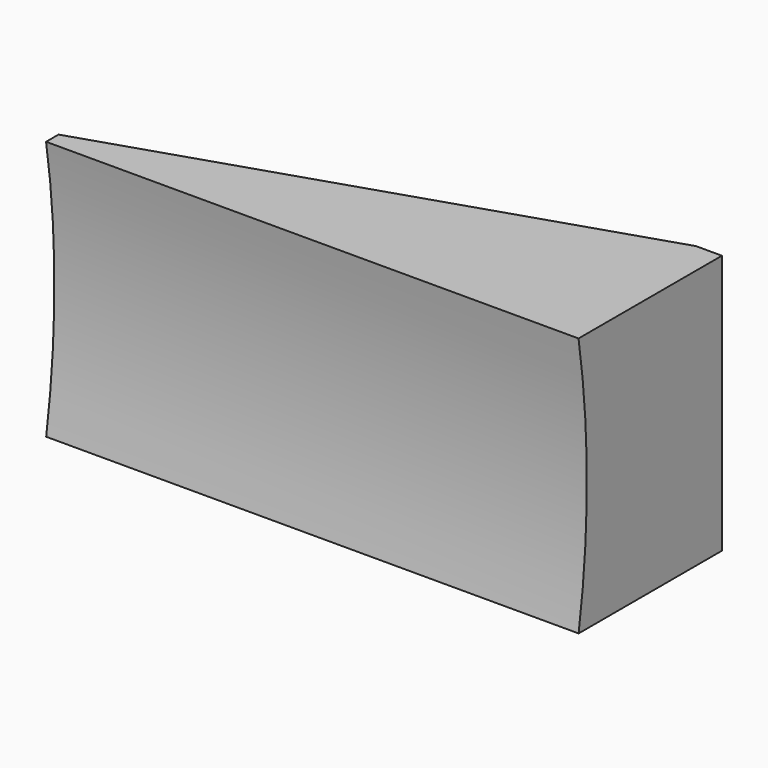
from build123d import *

# Parameters (mm, degrees)
F1_DEPTH = 50
F2_DEPTH = 50
F3_DEPTH = 18
F4_DEPTH = 18
F5_DEPTH = 31
F7_DEPTH = 205.001


with BuildPart() as f1:
    # F0 (on Top) → F1 (new body)
    with BuildSketch(Plane.XY):
        Polygon((0, 6), (0, 0), (205, 0), (205, 69), (195, 69), align=None)
    extrude(amount=-F1_DEPTH)

    # F0 (on Top) → F2 (join)
    with BuildSketch(Plane.XY):
        Polygon((0, 6), (0, 0), (205, 0), (205, 69), (195, 69), align=None)
    extrude(amount=F2_DEPTH)

    # F0 (on Top) → F3 (join)
    with BuildSketch(Plane.XY):
        Polygon((0, 16), (0, 6), (195, 69), (163.703159, 68.888713), align=None)
    extrude(amount=F3_DEPTH)

    # F3_face (on face) → F4 (join)
    with BuildSketch(Plane(origin=(89.903344, 39.900279, 0), x_dir=(1, 0, 0), z_dir=(0, 0, -1))):
        Polygon((105.096656, -29.099721), (-89.903344, 33.900279), (-89.903344, 23.900279), (73.799815, -28.988434), align=None)
    extrude(amount=F4_DEPTH)

    # F0 (on Top) → F5 (join, symmetric)
    with BuildSketch(Plane.XY):
        Polygon((0, 26), (0, 16), (163.703159, 68.888713), (133.095238, 69), align=None)
    extrude(amount=F5_DEPTH, both=True)

    # F6 (on Right) → F7 (cut, through all)
    with BuildSketch(Plane.YZ):
        with BuildLine():
            Line((0, 49.929991), (0, -50.243031))
            ThreePointArc((0, -50.243031), (4.000039, -0.15652), (0, 49.929991))
        make_face()
    extrude(amount=F7_DEPTH, mode=Mode.SUBTRACT)


solid = f1.part
